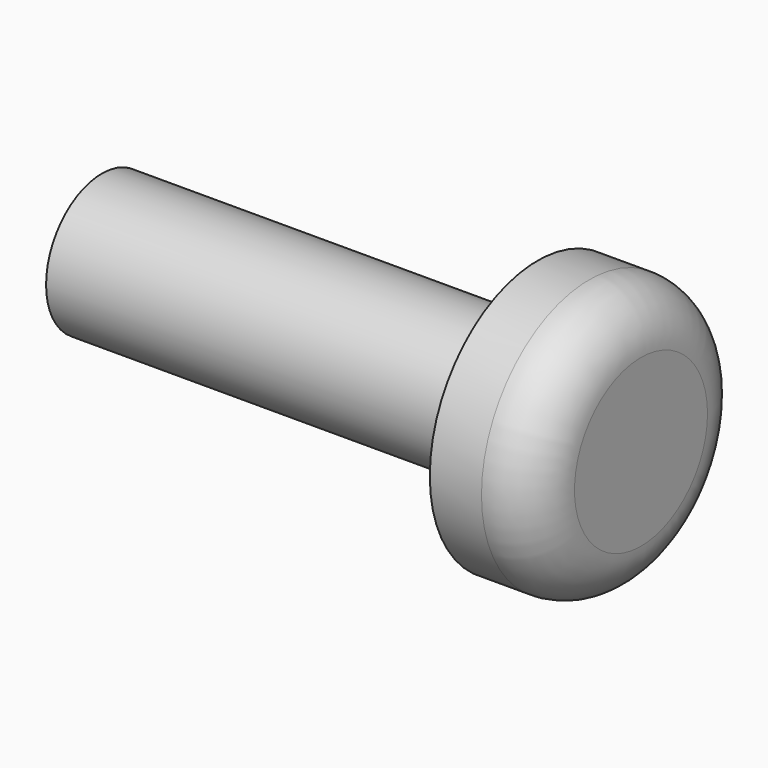
from build123d import *

# Parameters (mm, degrees)
F0_R     = 3.81
F1_DEPTH = 2.921
F2_R     = 1.4605
F3_R     = 1.9685
F4_DEPTH = 12.319


with BuildPart() as f1:
    # F0 (on Right) → F1 (new body)
    with BuildSketch(Plane.YZ):
        Circle(F0_R)
    extrude(amount=-F1_DEPTH)

    # F2
    f2_edges = [f1.edges().sort_by_distance(p)[0] for p in [
        (0, -3.81, 0),
    ]]
    fillet(f2_edges, radius=F2_R)

    # F3 (on face) → F4 (join)
    with BuildSketch(Plane(origin=(-2.921, 0, 0), x_dir=(0, -1, 0), z_dir=(-1, 0, 0))):
        Circle(F3_R)
    extrude(amount=F4_DEPTH)


solid = f1.part
